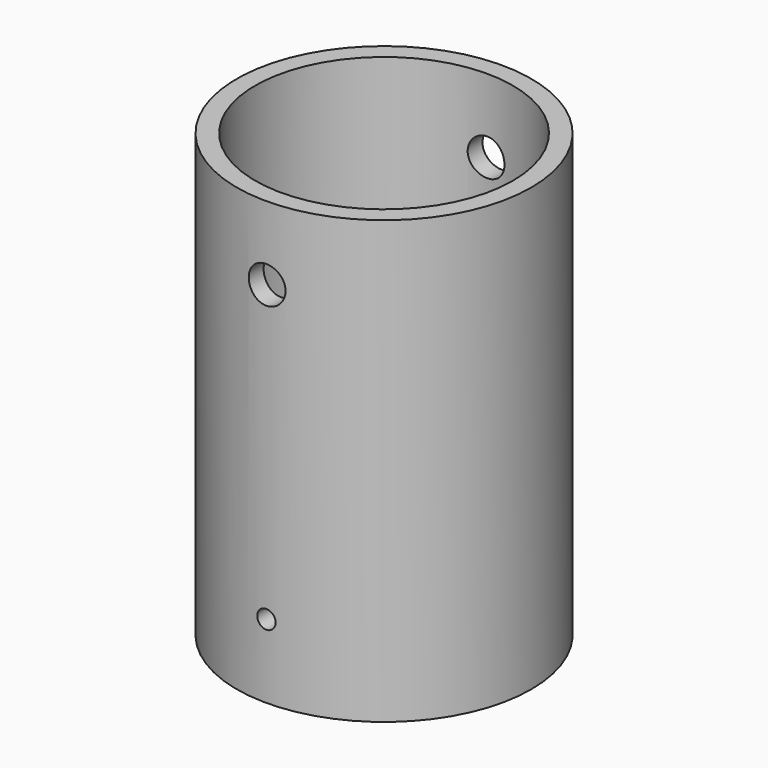
from build123d import *

# Parameters (mm, degrees)
F0_R     = 50.8
F0_R_2   = 44.45
F1_DEPTH = 152.4
F0_R_3   = 6.35
F2_DEPTH = 12.7
F3_R     = 6.35
F4_DEPTH = 63.5
F3_R_2   = 3.175
F5_DEPTH = 50.8010001


with BuildPart() as f1:
    # F0 (on Top) → F1 (new body)
    with BuildSketch(Plane.XY):
        Circle(F0_R)
        Circle(F0_R_2, mode=Mode.SUBTRACT)
    extrude(amount=F1_DEPTH)

    # F0 (on Top) → F2 (join)
    with BuildSketch(Plane.XY):
        Circle(F0_R)
        Circle(F0_R_2, mode=Mode.SUBTRACT)
        Circle(F0_R_2)
        Circle(F0_R_3, mode=Mode.SUBTRACT)
    extrude(amount=F2_DEPTH)

    # F3 (on Front) → F4 (cut, symmetric)
    with BuildSketch(Plane.XZ):
        with Locations((0, 127)):
            Circle(F3_R)
    extrude(amount=F4_DEPTH, both=True, mode=Mode.SUBTRACT)

    # F3 (on Front) → F5 (cut, through all)
    with BuildSketch(Plane.XZ):
        with Locations((0, 25.4)):
            Circle(F3_R_2)
    extrude(amount=F5_DEPTH, mode=Mode.SUBTRACT)


solid = f1.part
